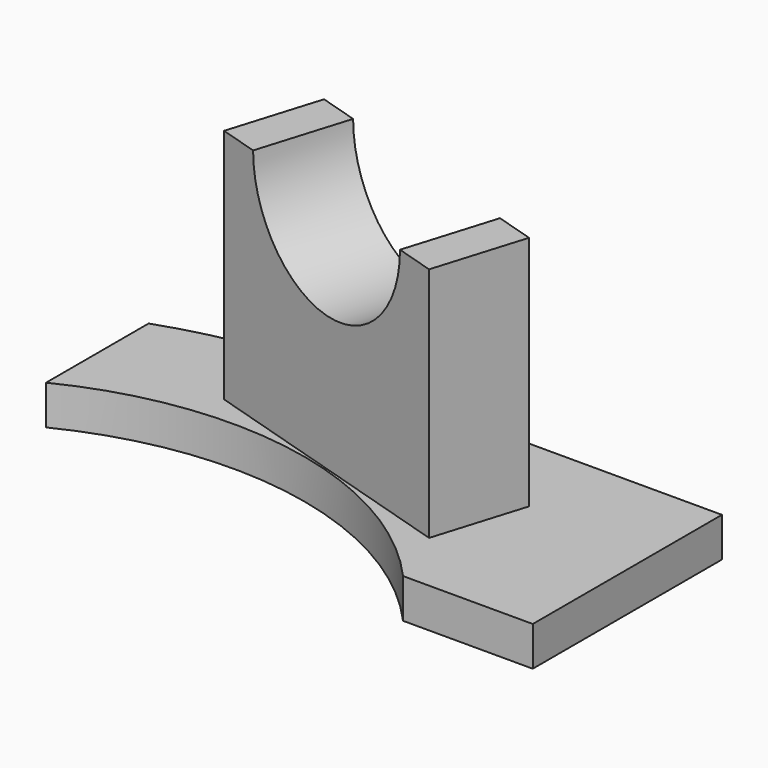
from build123d import *

# Parameters (mm, degrees)
PAD_DEPTH    = 5
PAD001_DEPTH = 30
SKETCH002_R  = 12.9
POCKET_DEPTH = 34.3976445385


with BuildPart() as part:
    # Sketch → Pad (new body)
    with BuildSketch(Plane.XY):
        with BuildLine():
            Line((33.5410196625, 30), (50, 30))
            Line((50, 30), (50, 60))
            Line((0, 60), (50, 60))
            ThreePointArc((0, 60), (-10.1461187235, 59.1359135792), (-20, 56.5685424949))
            Line((-20, 40.3112887415), (-20, 56.5685424949))
            ThreePointArc((33.5410196625, 30), (8.5100218715, 44.1880020792), (-20, 40.3112887415))
        make_face()
    extrude(amount=PAD_DEPTH)

    # Sketch001 → Pad001 (new body)
    with BuildSketch(Plane.XY.offset(5)):
        Polygon((-0.4786107292, 60), (33.9483604854, 49.47461863), (30.4399000287, 37.9989615584), (-3.9870711859, 48.5243429284), align=None)
    extrude(amount=PAD001_DEPTH)

    # Sketch002 → Pocket (cut, through all)
    with BuildSketch(Plane(origin=(16.7348748781, 54.737309315, 0), x_dir=(-0.956304756, 0.2923717047, 0), z_dir=(0.2923717047, 0.956304756, 0))):
        with Locations((0, 35)):
            Circle(SKETCH002_R)
    extrude(amount=-POCKET_DEPTH, mode=Mode.SUBTRACT)


solid = part.part
